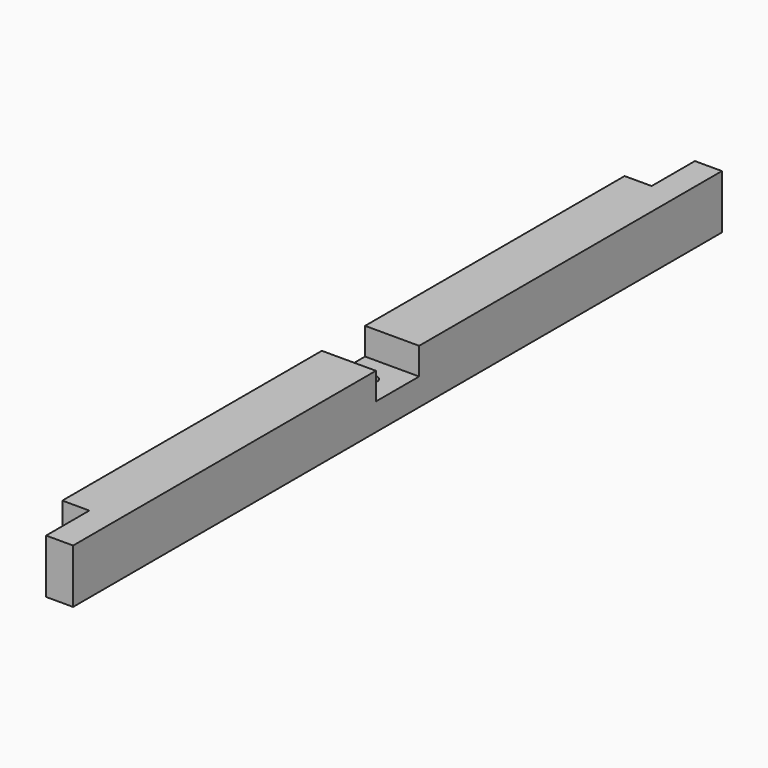
from build123d import *

# Parameters (mm, degrees)
SKETCH018_W     = 40
SKETCH018_H     = 40
PAD018_DEPTH    = 600
SKETCH019_W     = 40
SKETCH019_H     = 40
POCKET_DEPTH    = 20
SKETCH020_W     = 40
SKETCH020_H     = 40
POCKET001_DEPTH = 20
SKETCH064_R     = 5
POCKET019_DEPTH = 40.001


with BuildPart() as part:
    # Sketch018 → Pad018 (new body)
    with BuildSketch(Plane.XZ):
        with Locations((20, 280)):
            Rectangle(SKETCH018_W, SKETCH018_H)
    extrude(amount=PAD018_DEPTH)

    # Sketch019 (on Face4 of Pad018) → Pocket (cut)
    with BuildSketch(Plane(origin=(0, 0, 0), x_dir=(0, 0, -1), z_dir=(-1, 0, 0))):
        with Locations((-280, 580)):
            Rectangle(SKETCH019_W, SKETCH019_H)
        with Locations((-280, 20)):
            Rectangle(SKETCH019_W, SKETCH019_H)
    extrude(amount=-POCKET_DEPTH, mode=Mode.SUBTRACT)

    # Sketch020 (on Face1 of Pocket) → Pocket001 (cut)
    with BuildSketch(Plane(origin=(0, 0, 300), x_dir=(-1, 0, 0), z_dir=(0, 0, 1))):
        with Locations((-20, 300)):
            Rectangle(SKETCH020_W, SKETCH020_H)
    extrude(amount=-POCKET001_DEPTH, mode=Mode.SUBTRACT)

    # Sketch064 (on Face8 of Pocket001) → Pocket019 (cut, through all)
    with BuildSketch(Plane(origin=(0, 0, 260), x_dir=(1, 0, 0), z_dir=(0, 0, -1))):
        with Locations((20, 300)):
            Circle(SKETCH064_R)
    extrude(amount=-POCKET019_DEPTH, mode=Mode.SUBTRACT)


with BuildPart() as part_1:
    # Clone007 placement: moved
    add(part.part.moved(Location((1460, 0, 0))))


with BuildPart() as part_2:
    # Clone013 placement: moved
    add(part_1.part.moved(Location((0, 0, 450))))


solid = part_2.part
